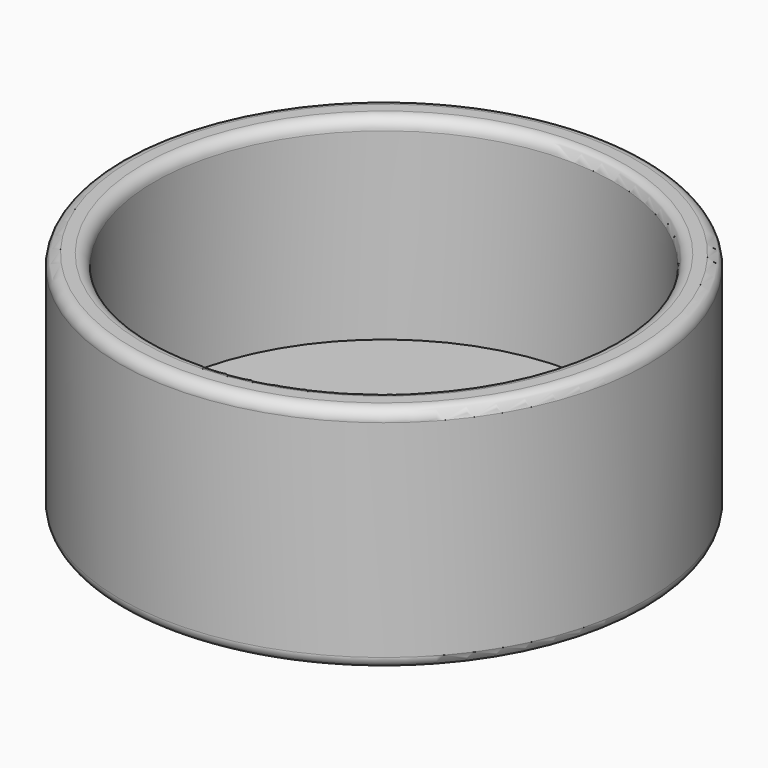
from build123d import *

# Parameters (mm, degrees)
F0_R     = 23
F0_R_2   = 20
F1_DEPTH = 20
F2_R     = 23
F3_DEPTH = 3
F4_R     = 1


with BuildPart() as f1:
    # F0 (on Top) → F1 (new body)
    with BuildSketch(Plane.XY):
        Circle(F0_R)
        Circle(F0_R_2, mode=Mode.SUBTRACT)
    extrude(amount=F1_DEPTH)

    # F2 (on Top) → F3 (join)
    with BuildSketch(Plane.XY):
        Circle(F2_R)
    extrude(amount=F3_DEPTH)

    # F4
    f4_edges = [f1.edges().sort_by_distance(p)[0] for p in [
        (-23, 0, 20),
        (-23, 0, 0),
        (-20, 0, 20),
    ]]
    fillet(f4_edges, radius=F4_R)


solid = f1.part
